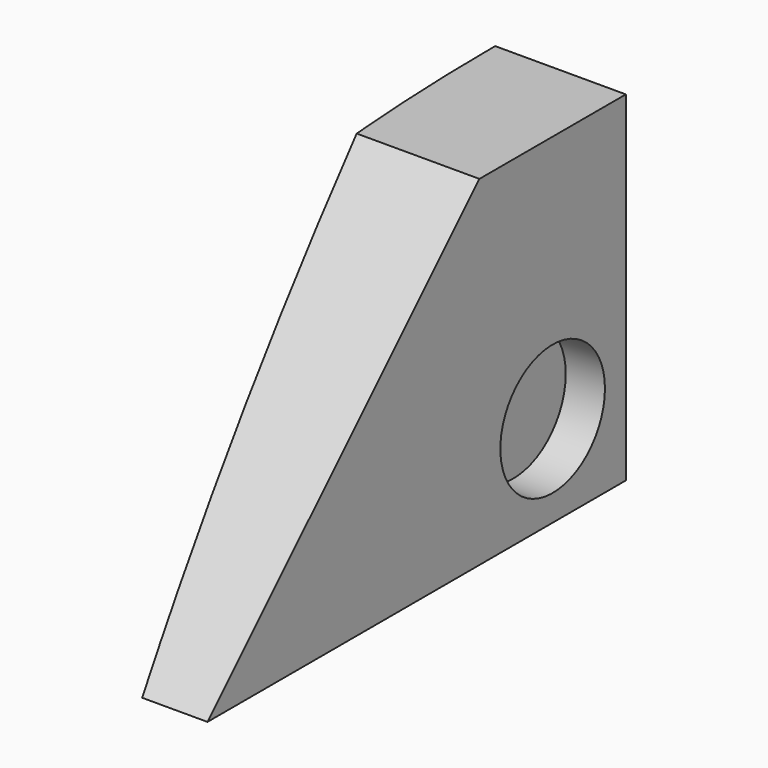
from build123d import *

# Parameters (mm, degrees)
F0_R     = 6.35
F1_DEPTH = 12.7
F2_DEPTH = 3.81
F4_DEPTH = 50.8


with BuildPart() as f1:
    # F0 (on Right) → F1 (new body)
    with BuildSketch(Plane.YZ):
        Polygon((-37.380086, 54.002845), (-70.400086, 20.982845), (-19.600086, 20.982845), (-19.600086, 54.002845), align=None)
        with Locations((-28.490086, 29.872845)):
            Circle(F0_R, mode=Mode.SUBTRACT)
        with Locations((-28.490086, 29.872845)):
            Circle(F0_R)
    extrude(amount=-F1_DEPTH)

    # F0 (on Right) → F2 (cut)
    with BuildSketch(Plane.YZ):
        with Locations((-28.490086, 29.872845)):
            Circle(F0_R)
    extrude(amount=-F2_DEPTH, mode=Mode.SUBTRACT)

    # F3 (on face) → F4 (cut)
    with BuildSketch(Plane(origin=(0, 0, 20.982845), x_dir=(1, 0, 0), z_dir=(0, 0, -1))):
        with BuildLine():
            ThreePointArc((-12.7, 19.600086), (-11.102629, 45.19729), (-6.35, 70.400086))
            Line((-6.35, 70.400086), (-12.7, 70.400086))
            Line((-12.7, 70.400086), (-12.7, 19.600086))
        make_face()
    extrude(amount=-F4_DEPTH, mode=Mode.SUBTRACT)


solid = f1.part
